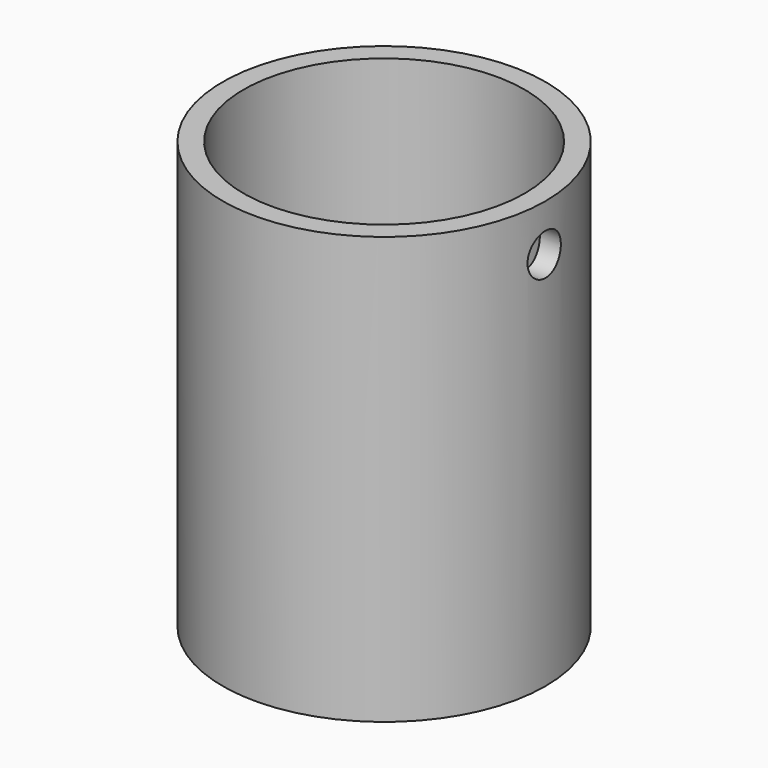
from build123d import *

# Parameters (mm, degrees)
F0_R     = 31
F1_DEPTH = 82
F2_R     = 27
F3_DEPTH = 78
F4_R     = 4
F5_DEPTH = 4
F7_R     = 4
F8_DEPTH = 4.2989402544


with BuildPart() as f1:
    # F0 (on Top) → F1 (new body)
    with BuildSketch(Plane.XY):
        Circle(F0_R)
    extrude(amount=F1_DEPTH)

    # F2 (on face) → F3 (cut)
    with BuildSketch(Plane.XY.offset(82)):
        Circle(F2_R)
    extrude(amount=-F3_DEPTH, mode=Mode.SUBTRACT)

    # F4 (on face) → F5 (cut, through all)
    with BuildSketch(Plane(origin=(0, 0, 0), x_dir=(1, 0, 0), z_dir=(0, 0, -1))):
        Circle(F4_R)
    extrude(amount=-F5_DEPTH, mode=Mode.SUBTRACT)

    # F7 (on offset) → F8 (cut, through all)
    with BuildSketch(Plane.YZ.offset(31)):
        with Locations((0, 73)):
            Circle(F7_R)
    extrude(amount=-F8_DEPTH, mode=Mode.SUBTRACT)


solid = f1.part
